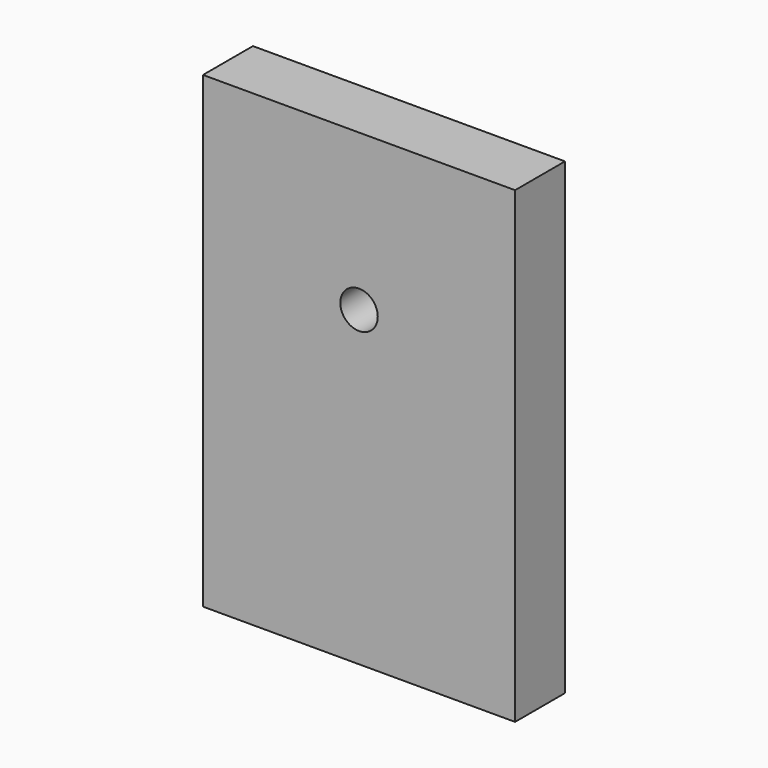
from build123d import *

# Parameters (mm, degrees)
F0_W     = 100
F0_H     = 150
F1_DEPTH = 20
F3_DEPTH = 25


with BuildPart() as f1:
    # F0 (on Front) → F1 (new body)
    with BuildSketch(Plane.XZ):
        with Locations((-0.977241, 8.298677)):
            Rectangle(F0_W, F0_H)
    extrude(amount=F1_DEPTH)

    # F2 (on face) → F3 (cut)
    with BuildSketch(Plane.XZ.offset(20)):
        with BuildLine():
            ThreePointArc((-0.977241, 39.298677), (-5.219882, 29.056037), (5.022759, 33.298677))
            ThreePointArc((5.022759, 33.298677), (3.265399, 37.541318), (-0.977241, 39.298677))
        make_face()
    extrude(amount=-F3_DEPTH, mode=Mode.SUBTRACT)


solid = f1.part
